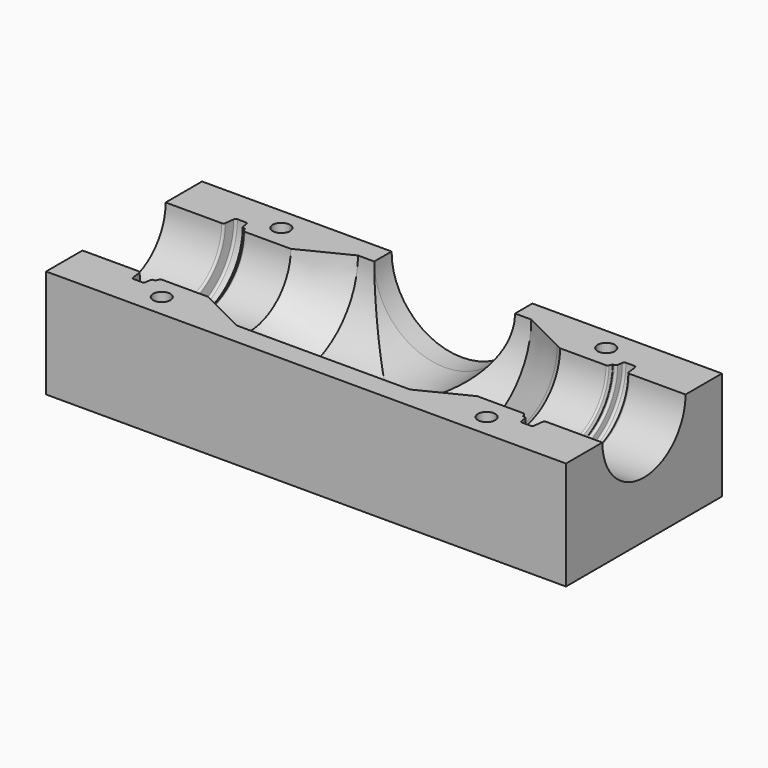
from build123d import *

# Parameters (mm, degrees)
F2_DEPTH = 50
F3_DEPTH = 10
F4_DEPTH = 10
F9_D     = 8
F9_DEPTH = 10
F9_TIP   = 2.4034424761


with BuildPart() as f2:
    # F1 (on Top) → F2 (new body)
    with BuildSketch(Plane.XY):
        Polygon((104.6946440462, 9.7200765769), (-17.8120452341, 9.7200765769), (-135.3053559538, 9.7200765769), (-135.3053559538, -25.2799234231), (-135.3053559538, -25.3889499211), (-135.3053559538, -60.2799234231), (-17.8120452341, -60.2799234231), (104.6946440462, -60.2799234231), (104.6946440462, -25.2799234231), align=None)
    extrude(amount=-F2_DEPTH)

    # F3 (add): a face of the model
    f3_faces = [f2.faces().sort_by_distance(p)[0] for p in [
        (-15.3053559538, -60.2799234231, -25),
    ]]
    extrude(f3_faces, amount=F3_DEPTH)

    # F4 (add): a face of the model
    f4_faces = [f2.faces().sort_by_distance(p)[0] for p in [
        (-15.3053559538, 9.7200765769, -25),
    ]]
    extrude(f4_faces, amount=F4_DEPTH)

    # F0 (on Top) → F5 (revolve, cut)
    with BuildSketch(Plane.XY):
        with BuildLine():
            Line((24.6946440462, 9.7200765769), (-15.3053559538, 9.7200765769))
            Line((-15.3053559538, 9.7200765769), (-55.3053559538, 9.7200765769))
            Line((-55.3053559538, 9.7200765769), (-75.3056423718, -0.2800666321))
            Line((-75.3056423718, -0.2800666321), (-77.4452192884, -1.3498550904))
            Line((-77.4452192884, -1.3498550904), (-98.6462212814, -1.3498550904))
            ThreePointArc((-98.6462212814, -1.3498550904), (-99.1921483195, -1.1876878118), (-99.5610123534, -0.7537824284))
            Line((-99.5610123534, -0.7537824284), (-100.1305331281, 0.5360349991))
            ThreePointArc((-100.1305331281, 0.5360349991), (-100.2011470727, 0.6191002152), (-100.3056572934, 0.6501449096))
            Line((-100.3056572934, 0.6501449096), (-100.7860915868, 0.6501449096))
            ThreePointArc((-100.7860915868, 0.6501449096), (-101.4464715397, 0.8992132764), (-101.77789198, 1.5223482739))
            Line((-101.77789198, 1.5223482739), (-102.0685323482, 3.7779415453))
            ThreePointArc((-102.0685323482, 3.7779415453), (-102.3999527885, 4.4010765429), (-103.0603327414, 4.6501449096))
            Line((-103.0603327414, 4.6501449096), (-106.9050528879, 4.6501449096))
            ThreePointArc((-106.9050528879, 4.6501449096), (-107.5675666481, 4.3991946527), (-107.8975644116, 3.7722959448))
            Line((-107.8975644116, 3.7722959448), (-108.4113152888, -0.4020744583))
            ThreePointArc((-108.4113152888, -0.4020744583), (-108.7413130523, -1.0289731662), (-109.4038268125, -1.2799234231))
            Line((-109.4038268125, -1.2799234231), (-135.3053559538, -1.2799234231))
            Line((-135.3053559538, -1.2799234231), (-135.3053559538, -25.2799234231))
            Line((-135.3053559538, -25.2799234231), (-15.3053559538, -25.2799234231))
            Line((-15.3053559538, -25.2799234231), (104.6946440462, -25.2799234231))
            Line((104.6946440462, -25.2799234231), (104.6946440462, -1.2799234231))
            Line((104.6946440462, -1.2799234231), (78.7931149049, -1.2799234231))
            ThreePointArc((78.7931149049, -1.2799234231), (78.1306011447, -1.0289731662), (77.8006033812, -0.4020744583))
            Line((77.8006033812, -0.4020744583), (77.286852504, 3.7722959448))
            ThreePointArc((77.286852504, 3.7722959448), (76.9568547405, 4.3991946527), (76.2943409803, 4.6501449096))
            Line((76.2943409803, 4.6501449096), (72.4496208338, 4.6501449096))
            ThreePointArc((72.4496208338, 4.6501449096), (71.7892408809, 4.4010765429), (71.4578204406, 3.7779415453))
            Line((71.4578204406, 3.7779415453), (71.1671800723, 1.5223482739))
            ThreePointArc((71.1671800723, 1.5223482739), (70.835759632, 0.8992132764), (70.1753796792, 0.6501449096))
            Line((70.1753796792, 0.6501449096), (69.6949453858, 0.6501449096))
            ThreePointArc((69.6949453858, 0.6501449096), (69.5904351651, 0.6191002152), (69.5198212205, 0.5360349991))
            Line((69.5198212205, 0.5360349991), (68.9503004458, -0.7537824284))
            ThreePointArc((68.9503004458, -0.7537824284), (68.5814364119, -1.1876878118), (68.0355093737, -1.3498550904))
            Line((68.0355093737, -1.3498550904), (46.8345073808, -1.3498550904))
            Line((46.8345073808, -1.3498550904), (44.6949304641, -0.2800666321))
            Line((44.6949304641, -0.2800666321), (24.6946440462, 9.7200765769))
        make_face()
    revolve(axis=Axis((-75.3053559538, -25.2799234231, 0), (-1, 0, 0)), mode=Mode.SUBTRACT)

    # F6 (on face) → F7 (revolve, cut)
    with BuildSketch(Plane.XY):
        Polygon((-15.3053559538, -25.2799234231), (-15.3053559538, 9.7200765769), (-15.3053559538, 19.7200765769), (-47.8053559538, 19.7200765769), (-47.8053559538, 9.7200765769), (-50.3053559538, -25.2799234231), align=None)
    revolve(axis=Axis((-15.3053559538, -7.7799234231, 0), (0, -1, 0)), mode=Mode.SUBTRACT)

    # F9
    with Locations(Plane.XY):
        with Locations((-90.3053559538, 9.2200765769), (-90.3053559538, -59.7799234231), (59.6946440462, -59.7799234231), (59.6946440462, 9.2200765769)):
            Hole(F9_D / 2, depth=F9_DEPTH)
            with Locations((0, 0, -(F9_DEPTH + F9_TIP / 2))):  # 118° drill point
                Cone(0, F9_D / 2, F9_TIP, mode=Mode.SUBTRACT)


solid = f2.part
